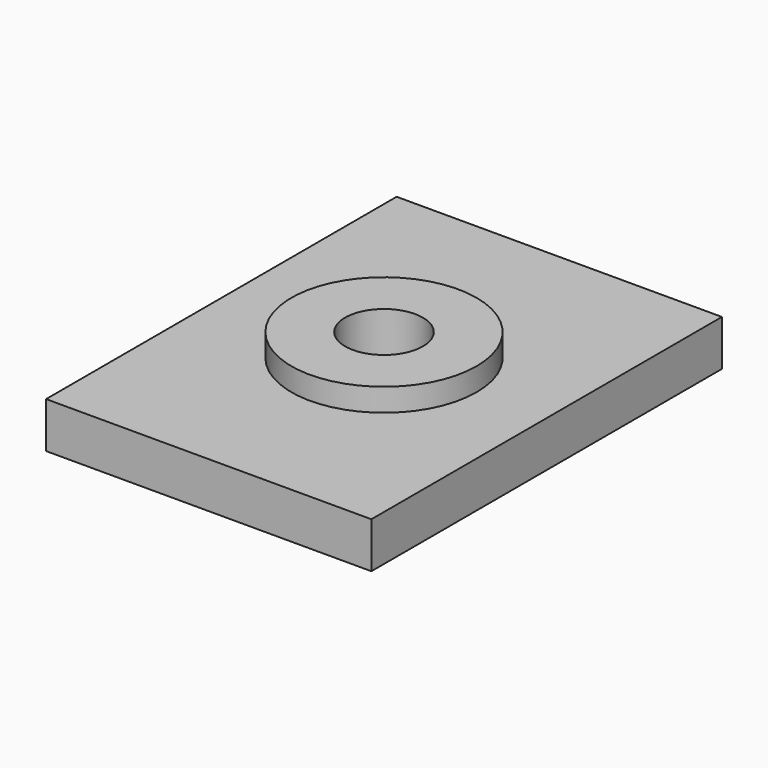
from build123d import *

# Parameters (mm, degrees)
F0_W     = 45.113686
F0_H     = 60.767936
F0_R     = 12.848054
F0_R_2   = 5.3975
F1_DEPTH = 6.35
F2_DEPTH = 3.175


with BuildPart() as f1:
    # F0 (on Top) → F1 (new body)
    with BuildSketch(Plane.XY):
        Rectangle(F0_W, F0_H)
        Circle(F0_R, mode=Mode.SUBTRACT)
        Circle(F0_R)
        Circle(F0_R_2, mode=Mode.SUBTRACT)
    extrude(amount=-F1_DEPTH)

    # F0 (on Top) → F2 (join)
    with BuildSketch(Plane.XY):
        Circle(F0_R)
        Circle(F0_R_2, mode=Mode.SUBTRACT)
    extrude(amount=F2_DEPTH)


solid = f1.part
